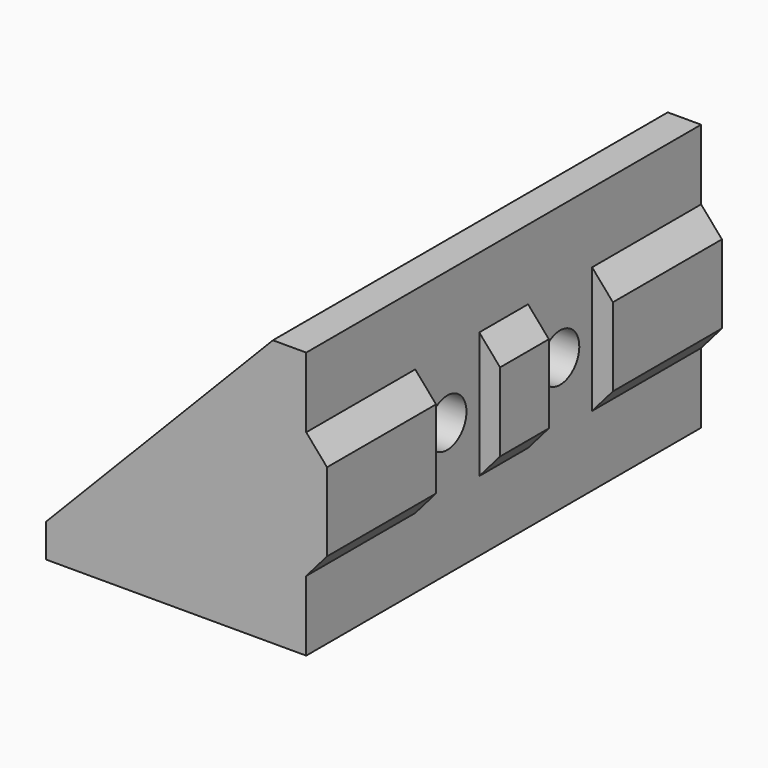
from build123d import *

# Parameters (mm, degrees)
PAD_DEPTH       = 37
PAD001_DEPTH    = 37
SKETCH002_W     = 17
SKETCH002_H     = 33
POCKET_DEPTH    = 17.5
SKETCH003_R     = 1.8
POCKET001_DEPTH = 21.061
SKETCH004_W     = 9.48
SKETCH004_H     = 6
POCKET002_DEPTH = 1.56
SKETCH005_W     = 12.5
SKETCH005_H     = 23
POCKET003_DEPTH = 2.501
POCKET004_DEPTH = 2.501
FILLET_R        = 1


with BuildPart() as part:
    # Sketch → Pad (new body)
    with BuildSketch(Plane.XZ):
        Polygon((-8.5, -7.5), (-8.5, -10), (11, -10), (11, -4.74), (12.56, -2.94), (12.56, 2.94), (11, 4.74), (11, 10), (8.5, 10), (8.5, -7.5), align=None)
    extrude(amount=PAD_DEPTH)

    # Sketch001 (on Face12 of Pad) → Pad001 (join)
    with BuildSketch(Plane.XZ.offset(37)):
        Polygon((8.5, 10), (-8.5, -7.5), (8.5, -7.5), align=None)
    extrude(amount=-PAD001_DEPTH)

    # Sketch002 (on Face8 of Pad001) → Pocket (cut)
    with BuildSketch(Plane(origin=(0, 0, 10), x_dir=(-1, 0, 0), z_dir=(0, 0, 1))):
        with Locations((0, 18.5)):
            Rectangle(SKETCH002_W, SKETCH002_H)
    extrude(amount=-POCKET_DEPTH, mode=Mode.SUBTRACT)

    # Sketch003 (on Face16 of Pocket) → Pocket001 (cut, through all)
    with BuildSketch(Plane(origin=(12.56, 0, 0), x_dir=(0, 0, 1), z_dir=(1, 0, 0))):
        with Locations((0, 23.786)):
            Circle(SKETCH003_R)
        with Locations((0, 13.214)):
            Circle(SKETCH003_R)
    extrude(amount=-POCKET001_DEPTH, mode=Mode.SUBTRACT)

    # Sketch004 (on Face16 of Pocket001) → Pocket002 (cut)
    with BuildSketch(Plane(origin=(12.56, 0, 0), x_dir=(0, 0, 1), z_dir=(1, 0, 0))):
        with Locations((0, 23.786)):
            Rectangle(SKETCH004_W, SKETCH004_H)
        with Locations((0, 13.214)):
            Rectangle(SKETCH004_W, SKETCH004_H)
    extrude(amount=-POCKET002_DEPTH, mode=Mode.SUBTRACT)

    # Sketch005 (on Face3 of Pocket002) → Pocket003 (cut, through all)
    with BuildSketch(Plane(origin=(0, 0, -7.5), x_dir=(-1, 0, 0), z_dir=(0, 0, 1))):
        with Locations((0, 18.5)):
            Rectangle(SKETCH005_W, SKETCH005_H)
    extrude(amount=-POCKET003_DEPTH, mode=Mode.SUBTRACT)

    # Sketch006 (on Face3 of Pocket003) → Pocket004 (cut, through all)
    with BuildSketch(Plane(origin=(0, 0, -7.5), x_dir=(-1, 0, 0), z_dir=(0, 0, 1))):
        with BuildLine():
            ThreePointArc((1.35, 32.75), (0, 34.1), (-1.35, 32.75))
            Line((-1.35, 32.75), (-1.35, 4.25))
            ThreePointArc((-1.35, 4.25), (0, 2.9), (1.35, 4.25))
            Line((1.35, 4.25), (1.35, 32.75))
        make_face()
    extrude(amount=-POCKET004_DEPTH, mode=Mode.SUBTRACT)

    # Fillet
    fillet_edges = [part.edges().sort_by_distance(p)[0] for p in [
        (1.35, -30, -8.75),
        (-1.35, -30, -8.75),
        (1.35, -7, -8.75),
        (-1.35, -7, -8.75),
    ]]
    fillet(fillet_edges, radius=FILLET_R)


solid = part.part
